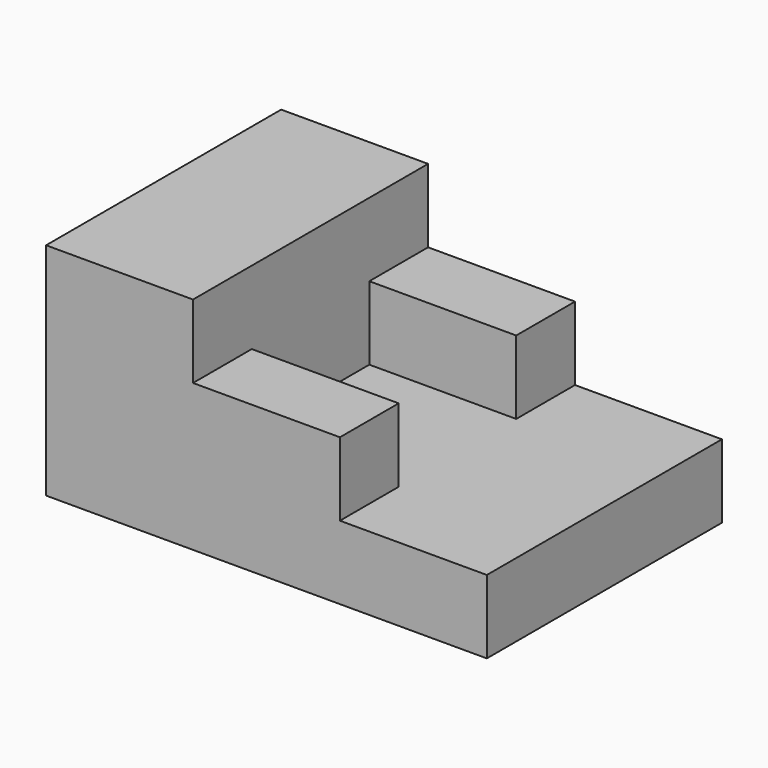
from build123d import *

# Parameters (mm, degrees)
F1_DEPTH = 40
F2_W     = 20
F2_H     = 10
F3_DEPTH = 10


with BuildPart() as f1:
    # F0 (on Front) → F1 (new body)
    with BuildSketch(Plane.XZ):
        Polygon((0, 30), (0, 0), (60, 0), (60, 10), (20, 10), (20, 30), align=None)
    extrude(amount=-F1_DEPTH)

    # F2 (on face) → F3 (join)
    with BuildSketch(Plane.XY.offset(10)):
        with Locations((30, 35)):
            Rectangle(F2_W, F2_H)
        with Locations((30, 5)):
            Rectangle(F2_W, F2_H)
    extrude(amount=F3_DEPTH)


solid = f1.part
